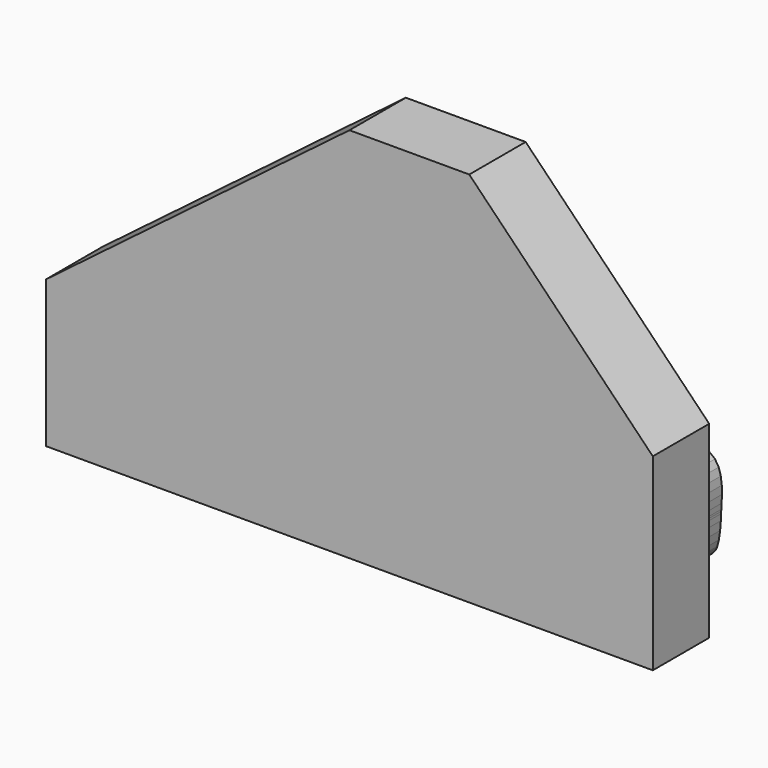
from build123d import *

# Parameters (mm, degrees)
F1_DEPTH = 15
F3_DEPTH = 25


with BuildPart() as f1:
    # F0 (on Front) → F1 (new body)
    with BuildSketch(Plane.XZ):
        Polygon((-15.4760422, -28.3726636), (-15.4869642, -29.1303456), (-15.4897582, -29.3096696), (-15.4966162, -29.8509436), (-15.5103322, -31.1575196), (-15.5243022, -32.8649076), (-15.5380182, -34.7859096), (-15.5448762, -36.7371376), (-15.5448762, -38.5313936), (-15.5324302, -39.9837656), (-15.5187142, -40.6769316), (-15.5049982, -40.9085796), (-15.4788362, -41.3551116), (-15.3741882, -42.6957236), (-15.1615902, -44.3673992), (-14.8158962, -45.9039214), (-14.2824962, -47.280576), (-13.5095742, -48.479456), (-12.4415042, -49.477168), (-11.0290102, -50.253011), (-9.6756982, -50.6939804), (-9.2141802, -50.7863094), (-8.8476582, -50.8579374), (-7.7353922, -51.0302002), (-6.1425582, -51.1831844), (-4.5067982, -51.20386), (-2.8959302, -51.0577592), (-1.3757402, -50.7049786), (-0.0173482, -50.1083072), (1.1144758, -49.2291116), (1.7906238, -48.3554532), (1.9481038, -48.0316032), (2.5335738, -46.8175594), (3.7807138, -42.9286416), (4.7977298, -37.4153176), (5.2302918, -31.7899796), (5.3184298, -27.7097236), (5.3174138, -26.3508236), (5.3158898, -25.9995416), (5.2937918, -24.9467116), (5.2084478, -23.4100116), (5.0209958, -21.8199716), (4.6943518, -20.2545696), (4.1927018, -18.7925456), (3.4761678, -17.5161956), (2.5089358, -16.5032436), (1.5853918, -15.9439356), (1.2534138, -15.8336996), (0.4403598, -15.5621736), (-2.1296122, -15.1501856), (-5.9083702, -15.1832056), (-9.5090742, -16.0513776), (-11.7828822, -17.2860716), (-12.3561602, -17.8761136), (-12.8715262, -18.4036716), (-14.0663422, -20.3330556), (-14.9909022, -23.1222296), (-15.3823162, -26.1026656), align=None)
    extrude(amount=F1_DEPTH)


with BuildPart() as f1b:
    # F0 (on Front) → F1, piece 2 (new body)
    with BuildSketch(Plane.XZ):
        Polygon((84.8204298, -19.1108076), (84.4691478, -19.4844416), (83.9784198, -20.0020936), (82.9903598, -22.0168216), (82.3149738, -25.2388116), (82.1346338, -28.8743136), (82.1427618, -31.7031116), (82.1427618, -32.6472296), (82.1427618, -33.4104996), (82.0602118, -35.7051356), (81.9194958, -39.0604756), (81.8740298, -42.4920156), (82.0807858, -45.7798932), (82.6941958, -48.7040936), (83.8697078, -51.0453894), (85.7645478, -52.5832578), (87.8422678, -53.113813), (88.5313698, -53.1000208), (89.2755898, -53.0834854), (91.5052018, -52.8850352), (94.5148478, -52.2111986), (97.0904078, -50.852451), (98.5209358, -49.218088), (98.7619818, -48.5841802), (99.0251258, -47.889668), (99.5694478, -45.7137516), (100.0230918, -42.6380656), (100.2544858, -39.5235176), (100.3593878, -37.2842536), (100.3962178, -36.5387636), (100.4266978, -35.8966516), (100.5384578, -33.9741256), (100.6456458, -31.1890156), (100.5935758, -28.3365956), (100.2516918, -25.5697736), (99.4924858, -23.0419656), (98.1887038, -20.9078576), (96.2141078, -19.3188336), (94.1495958, -18.5387996), (93.4399198, -18.4326276), (92.8846758, -18.3488076), (91.2146258, -18.1448456), (88.7038358, -18.0468016), (86.3169978, -18.4051956), align=None)
    extrude(amount=F1_DEPTH)


with BuildPart() as f1c:
    # F0 (on Front) → F1, piece 3 (new body)
    with BuildSketch(Plane.XZ):
        Polygon((27.5850858, 14.1291564), (27.6633178, 13.4329424), (27.7186898, 12.9340864), (27.6292818, 11.4044984), (26.9221458, 9.0796364), (25.2228858, 6.8307204), (23.0194358, 5.3384704), (22.2147638, 5.0270664), (21.6579958, 4.8121824), (19.9521318, 4.2594784), (17.4012098, 3.5594544), (14.7169378, 2.9335984), (12.0545098, 2.3948644), (9.5683578, 1.9498564), (7.4174858, 1.6092424), (5.7527698, 1.3834364), (4.9892458, 1.2940284), (4.7342298, 1.2787884), (4.3664378, 1.2579604), (3.2653478, 1.2071604), (1.6641318, 1.1174984), (0.0006858, 0.9534144), (-1.6513302, 0.6613144), (-3.2197802, 0.1845564), (-4.6332902, -0.5319776), (-5.8202322, -1.5434056), (-6.5395602, -2.5395936), (-6.7059302, -2.9048456), (-6.8837302, -3.2921956), (-7.2352662, -4.5421296), (-7.2365362, -5.9271916), (-6.7737482, -7.0788276), (-5.9055762, -8.0191356), (-4.6927262, -8.7658956), (-3.1989522, -9.3429836), (-1.4834362, -9.7689416), (0.3936238, -10.0666296), (2.3694898, -10.2538276), (4.3842178, -10.3549196), (6.3768478, -10.3861616), (8.2856578, -10.3724456), (10.0509578, -10.3325676), (11.6105178, -10.2871016), (12.9031238, -10.2553516), (13.6280398, -10.2528116), (13.8693398, -10.2624636), (19.5769738, -10.4842056), (48.1728018, -11.7008656), (76.7919978, -12.5649736), (82.5123318, -12.6119636), (83.2245478, -12.6175516), (85.3675458, -12.4064776), (87.6797078, -11.6279676), (89.1625598, -10.0955856), (89.5882638, -8.2309716), (89.5318758, -7.6302616), (89.4711698, -6.9962776), (88.8181358, -5.1428396), (87.3904018, -2.9767276), (85.5590618, -1.0585196), (84.1148178, 0.2493264), (83.6327258, 0.6821424), (81.7681118, 2.3521924), (72.4125298, 10.9909864), (63.4427738, 20.0158604), (61.7742478, 21.8776804), (60.2085918, 23.6224064), (55.4915578, 28.8352484), (48.9584238, 35.9033064), (42.2515538, 42.8789084), (37.1801898, 47.9185224), (35.4519738, 49.5558064), (34.8347538, 50.1400064), (32.6932798, 51.5842504), (29.7511978, 52.7330924), (26.6836398, 53.1138384), (23.5513118, 52.8420584), (20.4149198, 52.0290044), (17.3364398, 50.7889764), (14.3750538, 49.2357664), (12.2721878, 47.9416364), (11.5929918, 47.4803724), (10.4807258, 46.7265004), (5.1007518, 42.7976284), (-0.2114042, 38.7722364), (-1.2876022, 37.9690884), (-1.5896082, 37.7442984), (-2.4991822, 37.0732304), (-4.4641262, 35.6233984), (-6.9114162, 33.8210144), (-9.5685102, 31.8641984), (-12.1643902, 29.9528484), (-14.4244822, 28.2855924), (-16.0782762, 27.0633444), (-16.6899082, 26.6099544), (-16.8524682, 26.4816844), (-17.2796962, 26.1466584), (-19.8527162, 23.9889284), (-22.6004882, 21.7397584), (-23.1143302, 21.3582504), (-24.5738142, 20.2790044), (-39.0817862, 9.3059504), (-40.5285702, 8.2048604), (-43.3218082, 6.0824364), (-57.3296542, -4.5365416), (-71.1939902, -15.3198576), (-73.9158542, -17.5261016), (-75.0471702, -18.4407556), (-80.8238922, -22.8590856), (-86.636479, -27.2289016), (-87.7844066, -28.1217116), (-88.622251, -28.7737296), (-91.197811, -30.6518056), (-94.6690766, -33.3528416), (-97.7159082, -36.4010956), (-99.4797858, -39.0193276), (-99.853242, -39.9756376), (-100.0764826, -40.5461216), (-100.5381276, -42.3403776), (-100.6456204, -44.3742826), (-100.2391188, -46.0995776), (-99.3778302, -47.5437708), (-98.1224352, -48.730281), (-96.5335636, -49.6852448), (-94.6731914, -50.4321572), (-92.6006276, -50.9971548), (-90.3778736, -51.405028), (-88.0641368, -51.6806688), (-85.721444, -51.8473944), (-83.4105266, -51.93284), (-81.1904142, -51.9603736), (-79.1220922, -51.9562588), (-77.2671302, -51.9438382), (-76.0819662, -51.9424666), (-75.6864882, -51.9493754), (-72.9732602, -51.9907266), (-59.4604602, -51.9603736), (-45.9580742, -51.6930386), (-43.2473862, -51.6172704), (-42.2801542, -51.589686), (-39.3766802, -51.5097776), (-35.3886262, -51.092227), (-31.6693042, -49.9084854), (-29.2095682, -48.2327966), (-28.6060642, -47.4983048), (-28.0602182, -46.8327232), (-26.8986762, -44.4417958), (-26.0485382, -40.9400756), (-25.7284982, -37.2898416), (-25.6472182, -34.6632276), (-25.6169922, -33.7894676), (-25.5865122, -32.8994516), (-25.5727962, -30.2261016), (-25.6126742, -26.6045696), (-25.6294382, -22.9609396), (-25.5151382, -19.3284856), (-25.1623322, -15.7442916), (-24.4620542, -12.2395996), (-23.3086402, -8.8527636), (-22.0876622, -6.3831216), (-21.5931242, -5.6170576), (-20.9700622, -4.6510956), (-17.1062142, -0.1502156), (-12.7158242, 3.8929564), (-11.8296182, 4.6300644), (-11.0417102, 5.2874164), (-2.9386022, 11.8413784), (-2.1075142, 12.4641864), (-1.5136622, 12.9109724), (0.2737358, 14.2500604), (2.8091638, 16.0760664), (5.4853078, 17.8218084), (8.2922618, 19.3737484), (11.2150398, 20.6127604), (14.2439898, 21.4202264), (17.3669198, 21.6805764), (19.7893178, 21.4616284), (20.5708758, 21.2741764), (21.2503258, 21.1116164), (23.1957118, 20.2129644), (25.3564898, 18.4656984), (26.8972538, 16.1614104), align=None)
    extrude(amount=F1_DEPTH)


with BuildPart() as f1d:
    # F0 (on Front) → F1, piece 4 (new body)
    with BuildSketch(Plane.XZ):
        Polygon((45.1382638, -19.1905636), (44.6810638, -19.2705736), (44.3297818, -19.3312796), (43.3112418, -19.7158356), (41.9688518, -20.5009496), (40.6843738, -21.5166956), (39.4938758, -22.6523296), (38.4273298, -23.7960916), (37.5180098, -24.8390156), (36.7999518, -25.6716276), (36.4415578, -26.0686296), (36.3064298, -26.1829296), (36.1451398, -25.8092956), (35.7156258, -24.6698516), (35.1794318, -23.1316276), (34.6307918, -21.6213436), (34.0067138, -20.1908156), (33.2403958, -18.8931296), (32.2660518, -17.7821336), (31.0204358, -16.9101516), (29.8449238, -16.4250116), (29.4385238, -16.3297616), (28.7837118, -16.1755836), (26.7733018, -15.9111696), (23.8710978, -15.8187136), (20.9757518, -16.0556956), (18.9777878, -16.4303456), (18.3341518, -16.6261796), (17.7789078, -16.7930576), (16.2795458, -17.8362356), (15.2531318, -19.7417436), (15.0448518, -22.1506796), (15.4459178, -24.8694956), (16.2477958, -27.7054056), (17.2399198, -30.4656236), (18.2142638, -32.9586336), (18.7946538, -34.4757756), (18.9610238, -34.9911416), (19.1375538, -35.5354636), (19.5579238, -37.2042436), (20.1118978, -39.7124936), (20.7169258, -42.3388536), (21.4680038, -44.9117466), (22.4626678, -47.2557602), (23.7951518, -49.1974378), (25.5619758, -50.5616972), (27.2764758, -51.1349498), (27.8578818, -51.176301), (28.4738318, -51.2176522), (30.3300638, -51.2782566), (32.9744578, -51.184556), (35.4425758, -50.760122), (36.9665758, -50.1841008), (37.3869458, -49.8726714), (37.8954538, -49.493678), (39.1964418, -48.0522788), (40.6886918, -45.8074522), (42.0392098, -43.4372258), (43.0381918, -41.7698936), (43.4174138, -41.2474156), (43.9063638, -41.8138356), (45.2238618, -43.6466742), (47.0496138, -46.2429098), (49.0922818, -48.5938576), (50.8766318, -49.9732554), (51.5464298, -50.2626376), (52.1776198, -50.5355098), (54.2416238, -50.970942), (57.3602358, -51.1583686), (60.5159318, -50.9764792), (62.6243858, -50.7022354), (63.3203458, -50.5754386), (63.6012698, -50.5230892), (64.4310878, -50.2736866), (65.3114518, -49.8382036), (66.0046178, -49.2814864), (66.5517338, -48.618648), (66.9980118, -47.8648522), (67.3840918, -47.0366598), (67.7549318, -46.1478376), (68.0498258, -45.445045), (68.1532038, -45.2134986), (68.5761138, -44.2654182), (72.4704418, -34.5352116), (72.8151198, -33.5552796), (73.0477838, -32.8885296), (73.7767638, -30.8956456), (74.7937798, -28.0691336), (75.7127518, -25.2278896), (76.2532638, -23.2022396), (76.3840738, -22.5184716), (76.4544318, -22.1438216), (76.4612898, -20.9822796), (76.0934978, -19.7613016), (75.3576598, -18.8215016), (74.3294678, -18.1268116), (73.0863918, -17.6431956), (71.7041238, -17.3345856), (70.2598798, -17.1677076), (69.1877458, -17.1110656), (68.8311298, -17.1070016), (68.1227238, -17.0973496), (65.9977598, -17.0562016), (63.2294138, -17.2159676), (60.7927918, -17.9309776), (59.2840318, -19.0572136), (58.9586578, -19.5502276), (58.6447138, -20.0244456), (57.9609458, -21.6213436), (57.0955678, -24.0165636), (56.0691538, -26.2601456), (55.0381678, -27.5911056), (54.5931598, -27.8750776), (54.4636198, -27.4646136), (53.9993078, -26.2558276), (53.2180038, -24.6215916), (52.2505178, -23.0572056), (51.0998978, -21.6475056), (49.7658898, -20.4791056), (48.2500178, -19.6355716), (46.5550758, -19.2045336), align=None)
    extrude(amount=F1_DEPTH)


with BuildPart() as f3:
    # F2 (on face) → F3 (new body)
    with BuildSketch(Plane.XZ.offset(15)):
        Polygon((43.0399473011, 66.2449099898), (0.5399473011, 66.2449099898), (-107.0562079549, -15.290771611), (-107.0562079549, -67.3987553299), (108.1361025572, -67.3987553299), (108.1361025572, -0.57692267), align=None)
    extrude(amount=F3_DEPTH)


solid = Compound([f1.part, f1b.part, f1c.part, f1d.part, f3.part])
